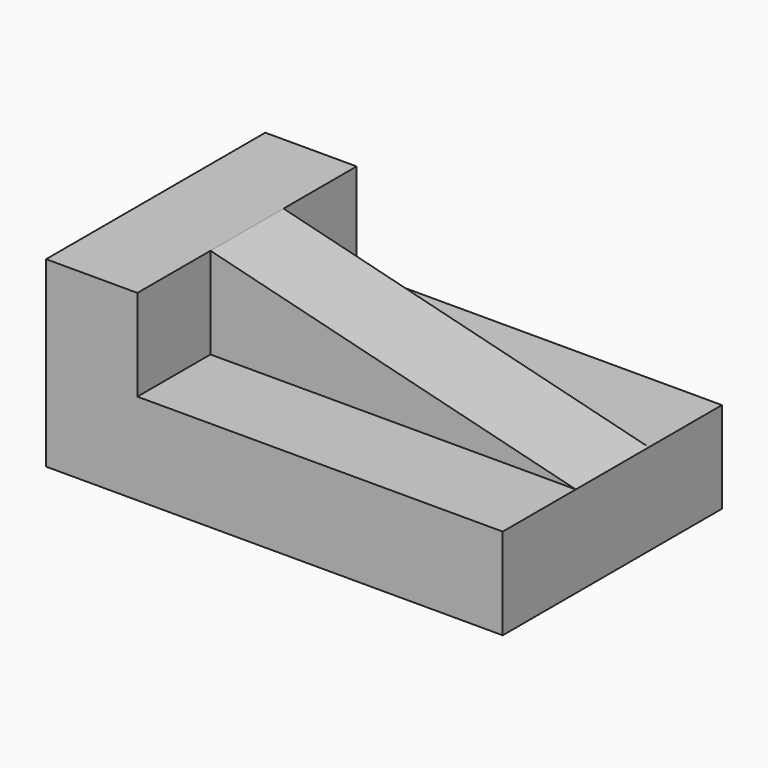
from build123d import *

# Parameters (mm, degrees)
F1_DEPTH = 76.2
F2_W     = 25.4
F2_H     = 25.4
F3_DEPTH = 101.6


with BuildPart() as f1:
    # F0 (on Front) → F1 (new body)
    with BuildSketch(Plane.XZ):
        Polygon((0, 50.8), (0, 0), (127, 0), (127, 25.4), (25.4, 50.8), align=None)
    extrude(amount=F1_DEPTH)

    # F2 (on face) → F3 (cut)
    with BuildSketch(Plane.YZ.offset(127)):
        with Locations((-63.5, 38.1)):
            Rectangle(F2_W, F2_H)
        with Locations((-12.7, 38.1)):
            Rectangle(F2_W, F2_H)
    extrude(amount=-F3_DEPTH, mode=Mode.SUBTRACT)


solid = f1.part
